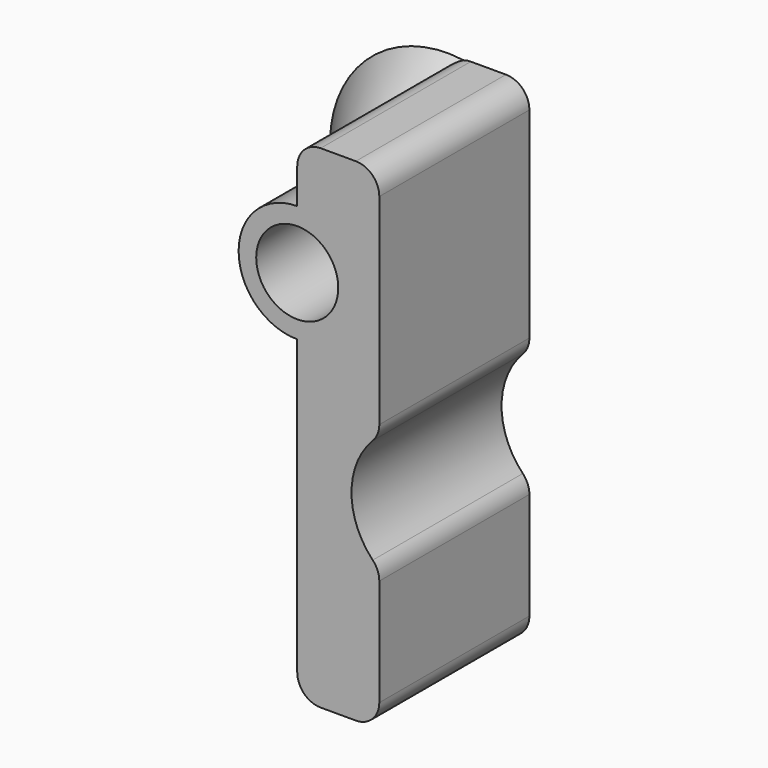
from build123d import *

# Parameters (mm, degrees)
F1_ANGLE_BACK = 90
F1_ANGLE      = 180
F4_DEPTH      = 8
F5_R          = 1.75
F6_DEPTH      = 25
F7_R          = 1
F8_R          = 1


with BuildPart() as f1:
    # F0 (on Top) → F1 (revolve)
    with BuildSketch(Plane.XY, mode=Mode.PRIVATE) as f1_sk:
        Polygon((0, 0), (0, 8), (-5, 8), (-1, 2.6666666667), (-1, 0), align=None)
    revolve(f1_sk.sketch.rotate(Axis((0, 4, 0), (0, 1, 0)), -F1_ANGLE_BACK), axis=Axis((0, 4, 0), (0, 1, 0)), revolution_arc=F1_ANGLE)

    # F3 (on Front) → F4 (join)
    with BuildSketch(Plane.XZ):
        with BuildLine():
            Line((3.5, 5.0001256168), (0, 5.0001256168))
            Line((0, 5.0001256168), (0, 2.5))
            ThreePointArc((0, 2.5), (-2.5, 0), (0, -2.5))
            Line((0, -2.5), (0, -15.9998743832))
            Line((0, -15.9998743832), (3.5, -15.9998743832))
            Line((3.5, -15.9998743832), (3.5, -9.9998743832))
            ThreePointArc((3.5, -9.9998743832), (2.3136093185, -7.4998743832), (3.5, -4.9998743832))
            Line((3.5, -4.9998743832), (3.5, 5.0001256168))
        make_face()
    extrude(amount=-F4_DEPTH)

    # F5 (on face) → F6 (cut)
    with BuildSketch(Plane(origin=(0, 8, 0), x_dir=(-1, 0, 0), z_dir=(0, 1, 0))):
        Circle(F5_R)
    extrude(amount=-F6_DEPTH, mode=Mode.SUBTRACT)

    # F7
    f7_edges = [f1.edges().sort_by_distance(p)[0] for p in [
        (3.5, 4, 5.000126),
        (0, 4, -15.999874),
        (3.5, 4, -15.999874),
        (3.5, 4, -9.999874),
        (3.5, 4, -4.999874),
    ]]
    fillet(f7_edges, radius=F7_R)

    # F8
    f8_edges = [f1.edges().sort_by_distance(p)[0] for p in [
        (0, 4, 5.000126),
    ]]
    fillet(f8_edges, radius=F8_R)


solid = f1.part
